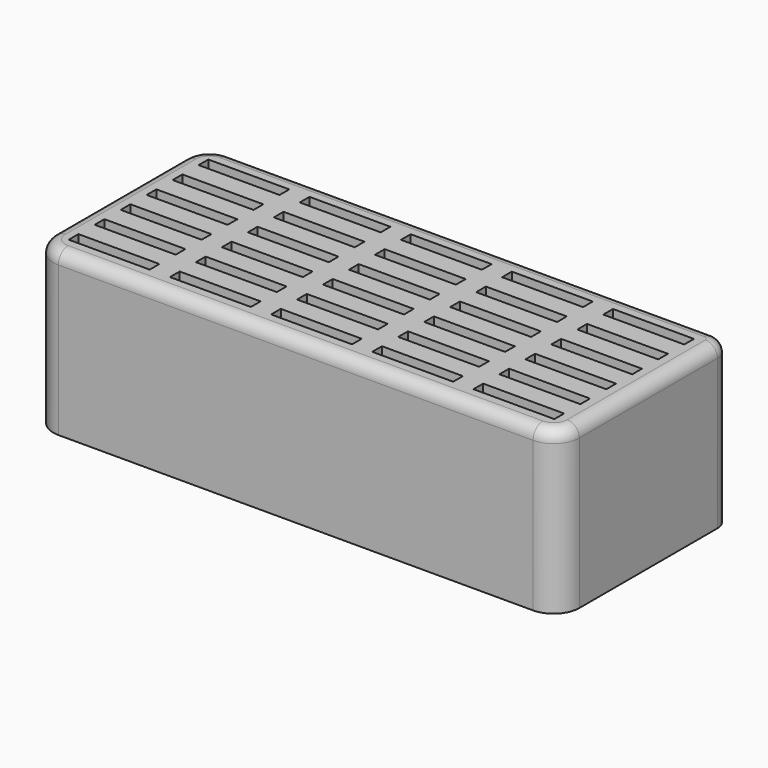
from build123d import *

# Parameters (mm, degrees)
F1_DEPTH = 40
F2_W     = 20
F2_H     = 3
F3_DEPTH = 25
F4_R     = 3


with BuildPart() as f1:
    # F0 (on Top) → F1 (new body)
    with BuildSketch(Plane.XY):
        with BuildLine():
            Line((61.428977, 28.446451), (-58.221023, 28.446451))
            ThreePointArc((-58.221023, 28.446451), (-62.711151, 26.586579), (-64.571023, 22.096451))
            Line((-64.571023, 22.096451), (-64.571023, -18.203549))
            ThreePointArc((-64.571023, -18.203549), (-62.711151, -22.693677), (-58.221023, -24.553549))
            Line((-58.221023, -24.553549), (59.078977, -24.553549))
            ThreePointArc((59.078977, -24.553549), (63.569105, -22.693677), (65.428977, -18.203549))
            Line((65.428977, -18.203549), (65.428977, 24.446451))
            ThreePointArc((65.428977, 24.446451), (64.257404, 27.274878), (61.428977, 28.446451))
        make_face()
    extrude(amount=F1_DEPTH)

    # F2 (on face) → F3 (cut)
    with BuildSketch(Plane.XY.offset(40)):
        with Locations((-49.571023, 21.946451)):
            Rectangle(F2_W, F2_H)
        with Locations((-49.588825, 13.946471)):
            Rectangle(F2_W, F2_H)
        with Locations((-49.606627, 5.94649)):
            Rectangle(F2_W, F2_H)
        with Locations((-49.624429, -2.05349)):
            Rectangle(F2_W, F2_H)
        with Locations((-49.642231, -10.05347)):
            Rectangle(F2_W, F2_H)
        with Locations((-49.660033, -18.05345)):
            Rectangle(F2_W, F2_H)
        with Locations((-24.571023, 21.946451)):
            Rectangle(F2_W, F2_H)
        with Locations((-24.588825, 13.946471)):
            Rectangle(F2_W, F2_H)
        with Locations((-24.606627, 5.94649)):
            Rectangle(F2_W, F2_H)
        with Locations((-24.624429, -2.05349)):
            Rectangle(F2_W, F2_H)
        with Locations((-24.642231, -10.05347)):
            Rectangle(F2_W, F2_H)
        with Locations((-24.660033, -18.05345)):
            Rectangle(F2_W, F2_H)
        with Locations((0.428977, 21.946451)):
            Rectangle(F2_W, F2_H)
        with Locations((0.411175, 13.946471)):
            Rectangle(F2_W, F2_H)
        with Locations((0.393373, 5.94649)):
            Rectangle(F2_W, F2_H)
        with Locations((0.375571, -2.05349)):
            Rectangle(F2_W, F2_H)
        with Locations((0.357769, -10.05347)):
            Rectangle(F2_W, F2_H)
        with Locations((0.339967, -18.05345)):
            Rectangle(F2_W, F2_H)
        with Locations((25.428977, 21.946451)):
            Rectangle(F2_W, F2_H)
        with Locations((25.411175, 13.946471)):
            Rectangle(F2_W, F2_H)
        with Locations((25.393373, 5.94649)):
            Rectangle(F2_W, F2_H)
        with Locations((25.375571, -2.05349)):
            Rectangle(F2_W, F2_H)
        with Locations((25.357769, -10.05347)):
            Rectangle(F2_W, F2_H)
        with Locations((25.339967, -18.05345)):
            Rectangle(F2_W, F2_H)
        with Locations((50.428977, 21.946451)):
            Rectangle(F2_W, F2_H)
        with Locations((50.411175, 13.946471)):
            Rectangle(F2_W, F2_H)
        with Locations((50.393373, 5.94649)):
            Rectangle(F2_W, F2_H)
        with Locations((50.375571, -2.05349)):
            Rectangle(F2_W, F2_H)
        with Locations((50.357769, -10.05347)):
            Rectangle(F2_W, F2_H)
        with Locations((50.339967, -18.05345)):
            Rectangle(F2_W, F2_H)
    extrude(amount=-F3_DEPTH, mode=Mode.SUBTRACT)

    # F4
    f4_edges = [f1.edges().sort_by_distance(p)[0] for p in [
        (1.603977, 28.446451, 40),
    ]]
    fillet(f4_edges, radius=F4_R)


solid = f1.part
